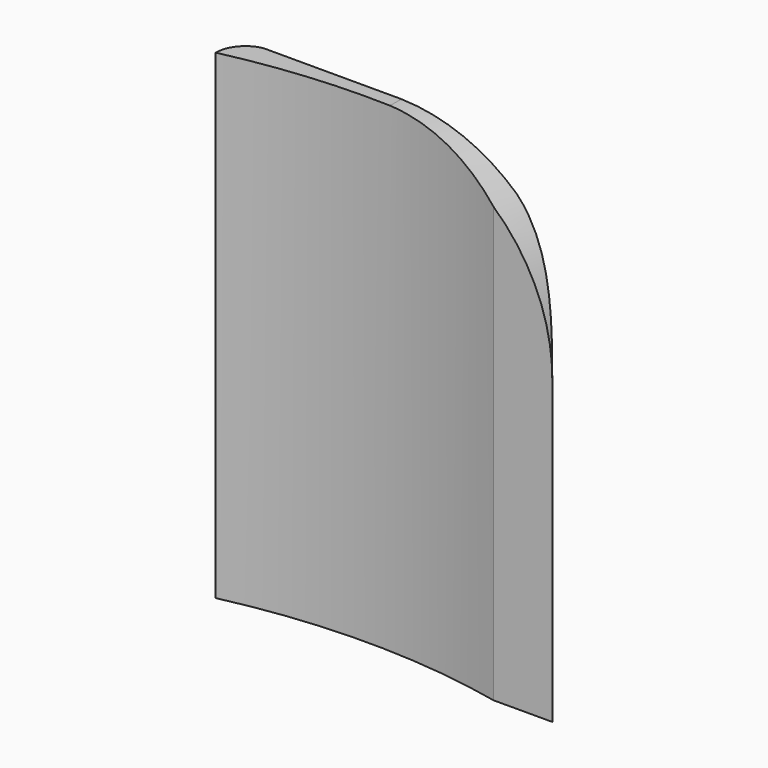
from build123d import *

# Parameters (mm, degrees)
F1_DEPTH = 12.7
F3_DEPTH = 2819.4
F4_R     = 3.175
F5_DEPTH = 44.45


with BuildPart() as f1:
    # F0 (on Front) → F1 (new body)
    with BuildSketch(Plane.XZ):
        Polygon((0, 127), (0, 0), (146.05, 0), (146.05, 131.5695), (70.539849, 208.714945), align=None)
        Polygon((0, 208.714945), (0, 127), (70.539849, 208.714945), align=None)
        with BuildLine():
            Line((70.539849, 208.714945), (146.05, 131.5695))
            ThreePointArc((146.05, 131.5695), (124.030763, 185.5445), (70.539849, 208.714945))
        make_face()
    extrude(amount=F1_DEPTH)

    # F2 (on Top) → F3 (intersect)
    with BuildSketch(Plane.XY):
        with BuildLine():
            ThreePointArc((10.757195, 0), (3.050719, -4.378233), (0, -12.7))
            ThreePointArc((0, -12.7), (60.312475, -5.995254), (120.65, -12.470686))
            Line((120.65, -12.470686), (146.05, -12.422409))
            ThreePointArc((146.05, -12.422409), (134.545033, -3.767731), (120.65, 0))
            Line((120.65, 0), (14.993685, 0))
            Line((14.993685, 0), (10.757195, 0))
        make_face()
    extrude(amount=F3_DEPTH, mode=Mode.INTERSECT)

    # F4 (on face) → F5 (cut)
    with BuildSketch(Plane(origin=(0, 0, 0), x_dir=(1, 0, 0), z_dir=(0, 0, -1))):
        with Locations((7.591504, 6.968603)):
            Circle(F4_R)
    extrude(amount=-F5_DEPTH, mode=Mode.SUBTRACT)


solid = f1.part
